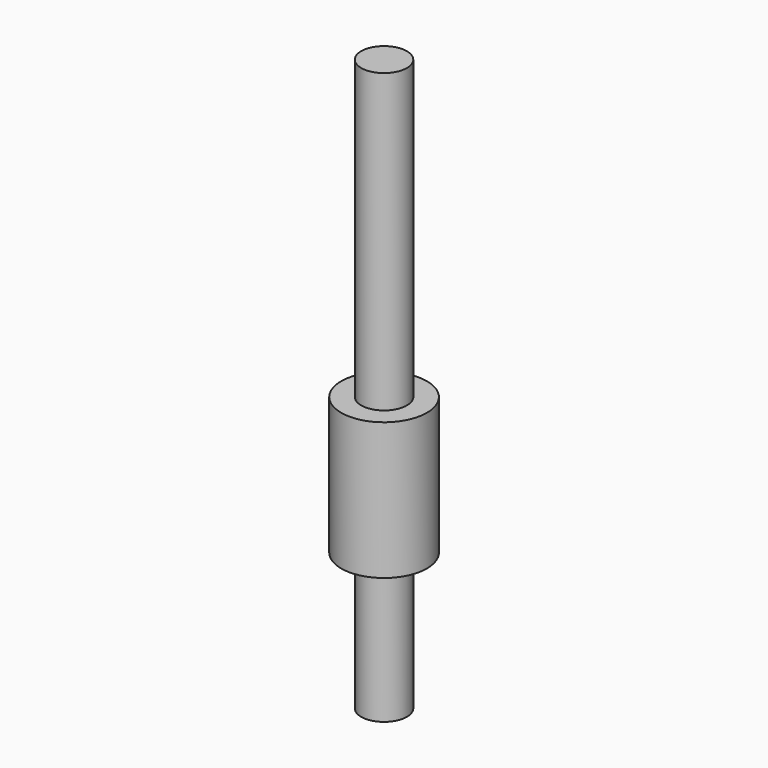
from build123d import *

# Parameters (mm, degrees)
CYLINDER026_R     = 4
CYLINDER026_DEPTH = 100
CYLINDER013_R     = 7.5
CYLINDER013_DEPTH = 24


with BuildPart() as rod_cylinder:
    # Cylinder026 → Cylinder026 (new body)
    with BuildSketch(Plane(origin=(42, 0, -118), x_dir=(1, 0, 0), z_dir=(0, 0, 1))):
        Circle(CYLINDER026_R)
    extrude(amount=CYLINDER026_DEPTH)


with BuildPart() as rod_fusion:
    # Cylinder013 → Cylinder013 (new body)
    with BuildSketch(Plane(origin=(42, 0, -94), x_dir=(1, 0, 0), z_dir=(0, 0, 1))):
        Circle(CYLINDER013_R)
    extrude(amount=CYLINDER013_DEPTH)

    # Fusion005: union rod cylinder
    add(rod_cylinder.part)


with BuildPart() as rod_fusion_1:
    # Fusion005 placement: moved
    add(rod_fusion.part.moved(Location((59, 19, 111))))


solid = rod_fusion_1.part
